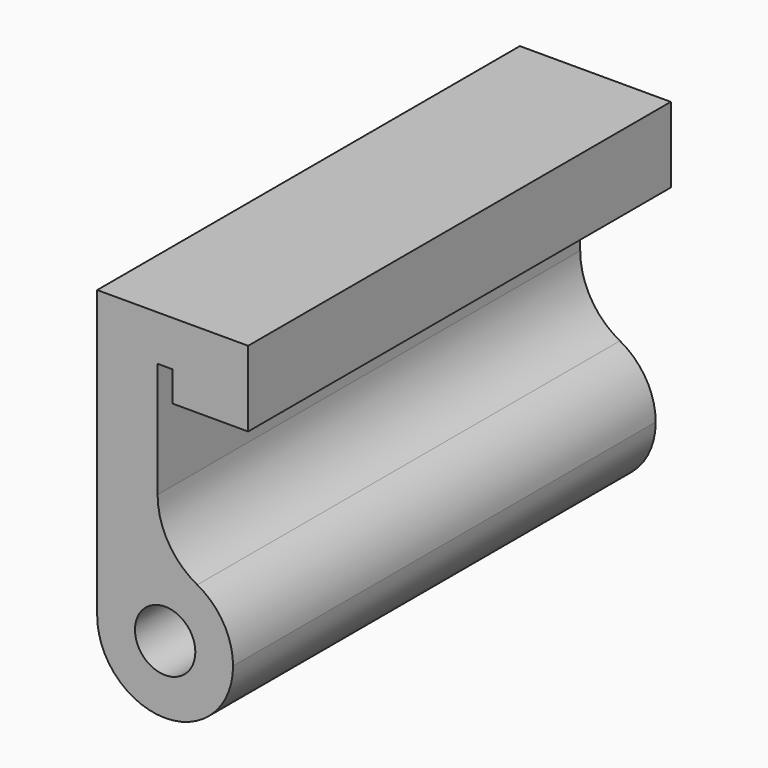
from build123d import *

# Parameters (mm, degrees)
F0_R     = 4
F1_DEPTH = 70
F2_R     = 10


with BuildPart() as f1:
    # F0 (on Front) → F1 (new body)
    with BuildSketch(Plane.XZ):
        with BuildLine():
            ThreePointArc((-9, 0), (-6.708204, 6), (-1, 8.944272))
            Line((-1, 8.944272), (-1, 32))
            Line((-1, 32), (1, 32))
            Line((1, 32), (1, 28))
            Line((1, 28), (11, 28))
            Line((11, 28), (11, 38))
            Line((11, 38), (-9, 38))
            Line((-9, 38), (-9, 0))
        make_face()
        with BuildLine():
            ThreePointArc((-9, 0), (0, -9), (9, 0))
            ThreePointArc((9, 0), (6, 6.708204), (-1, 8.944272))
            ThreePointArc((-1, 8.944272), (-6.708204, 6), (-9, 0))
        make_face()
        Circle(F0_R, mode=Mode.SUBTRACT)
    extrude(amount=F1_DEPTH)

    # F2
    f2_edges = [f1.edges().sort_by_distance(p)[0] for p in [
        (-1, -35, 8.944272),
    ]]
    fillet(f2_edges, radius=F2_R)


solid = f1.part
